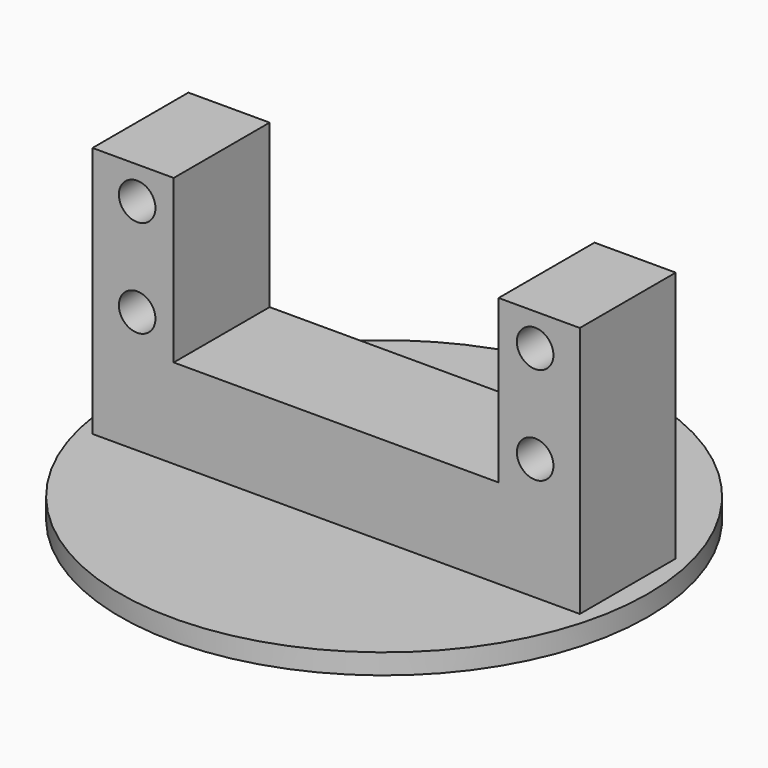
from build123d import *

# Parameters (mm, degrees)
F0_R     = 32.5
F1_DEPTH = 2.5
F2_W     = 10
F2_H     = 14.76
F2_W_2   = 40
F3_DEPTH = 11
F4_W     = 10
F4_H     = 14.76
F5_DEPTH = 20
F6_R     = 2.25
F7_DEPTH = 25.4


with BuildPart() as f1:
    # F0 (on Top) → F1 (new body)
    with BuildSketch(Plane.XY):
        Circle(F0_R)
    extrude(amount=F1_DEPTH)

    # F2 (on face) → F3 (join)
    with BuildSketch(Plane.XY.offset(2.5)):
        with Locations((25, 0)):
            Rectangle(F2_W, F2_H)
        Rectangle(F2_W_2, F2_H)
        with Locations((-25, 0)):
            Rectangle(F2_W, F2_H)
    extrude(amount=F3_DEPTH)

    # F4 (on face) → F5 (join)
    with BuildSketch(Plane.XY.offset(13.5)):
        with Locations((25, 0)):
            Rectangle(F4_W, F4_H)
        with Locations((-25, 0)):
            Rectangle(F4_W, F4_H)
    extrude(amount=F5_DEPTH)

    # F6 (on face) → F7 (cut)
    with BuildSketch(Plane.XZ.offset(7.38)):
        with Locations((-24.5, 17.5)):
            Circle(F6_R)
        with Locations((-24.5, 29.5)):
            Circle(F6_R)
        with Locations((24.5, 17.5)):
            Circle(F6_R)
        with Locations((24.5, 29.5)):
            Circle(F6_R)
    extrude(amount=-F7_DEPTH, mode=Mode.SUBTRACT)


solid = f1.part
